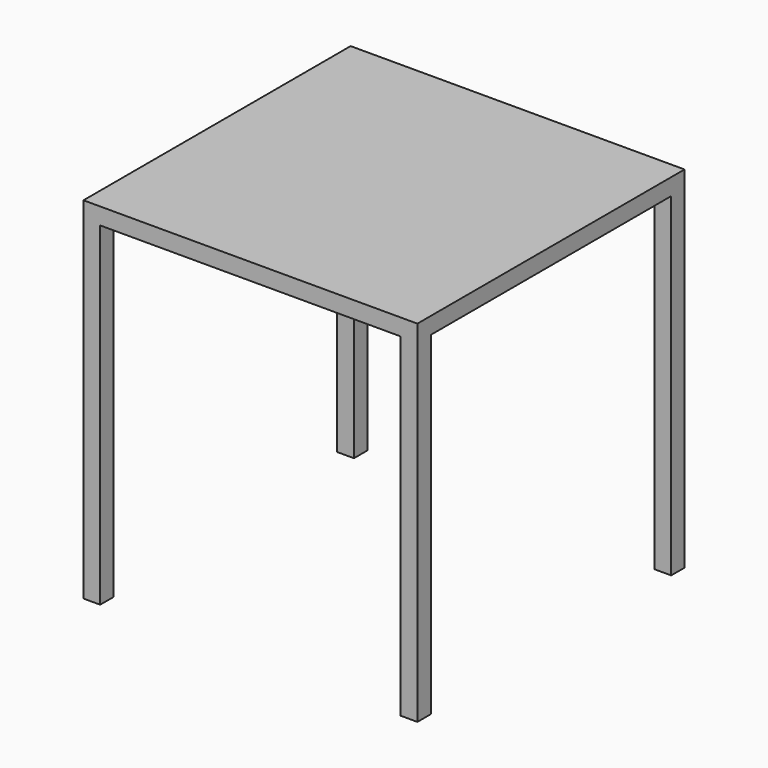
from build123d import *

# Parameters (mm, degrees)
F0_W     = 40
F0_H     = 40
F1_DEPTH = 2
F2_W     = 2
F2_H     = 40
F3_DEPTH = 2
F4_W     = 2
F4_H     = 40
F5_DEPTH = 2


with BuildPart() as f1:
    # F0 (on Top) → F1 (new body)
    with BuildSketch(Plane.XY):
        Rectangle(F0_W, F0_H)
    extrude(amount=F1_DEPTH)

    # F2 (on face) → F3 (join)
    with BuildSketch(Plane.YZ.offset(20)):
        with Locations((19, -20)):
            Rectangle(F2_W, F2_H)
        with Locations((-19, -20)):
            Rectangle(F2_W, F2_H)
    extrude(amount=-F3_DEPTH)

    # F4 (on face) → F5 (join)
    with BuildSketch(Plane(origin=(-20, 0, 0), x_dir=(0, -1, 0), z_dir=(-1, 0, 0))):
        with Locations((-19, -20)):
            Rectangle(F4_W, F4_H)
        with Locations((19, -20)):
            Rectangle(F4_W, F4_H)
    extrude(amount=-F5_DEPTH)


solid = f1.part
